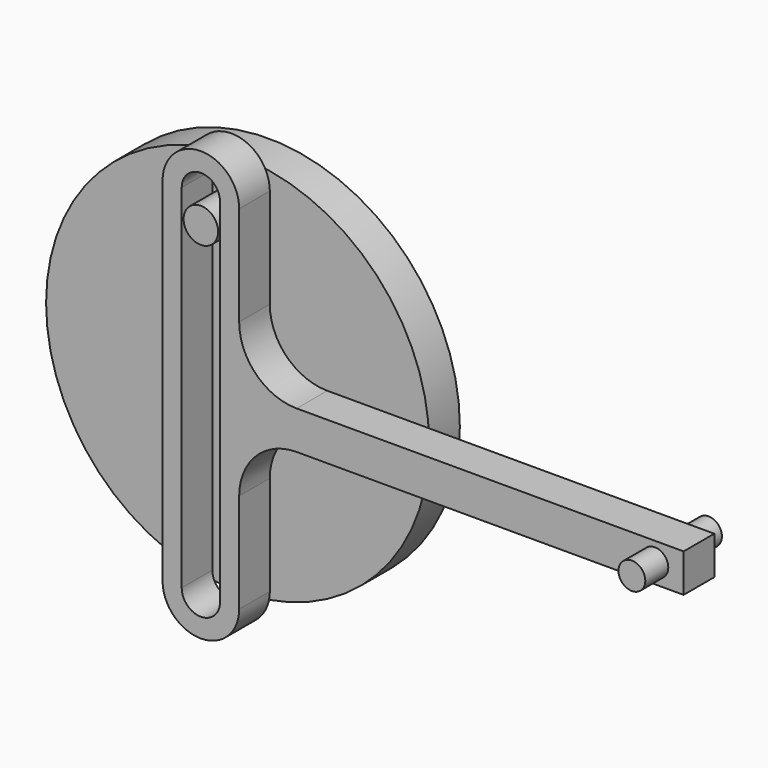
from build123d import *

# Parameters (mm, degrees)
F0_W     = 116
F0_H     = 10
F0_R     = 3.5
F1_DEPTH = 5
F3_R     = 50
F3_R_2   = 4.5
F4_DEPTH = 10
F5_DEPTH = 22
F6_R     = 15
F7_DEPTH = 12.5


with BuildPart() as f1:
    # F0 (on Front) → F1 (new body, symmetric)
    with BuildSketch(Plane.XZ):
        with BuildLine():
            ThreePointArc((5, 46), (2.0710678119, 53.0710678119), (-5, 56))
            ThreePointArc((-5, 56), (-12.0710678119, 53.0710678119), (-15, 46))
            Line((-15, 46), (-15, -46))
            ThreePointArc((-15, -46), (-12.0710678119, -53.0710678119), (-5, -56))
            ThreePointArc((-5, -56), (2.0710678119, -53.0710678119), (5, -46))
            Line((5, -46), (5, -5))
            Line((5, -5), (5, 5))
            Line((5, 5), (5, 46))
        make_face()
        with BuildLine():
            ThreePointArc((-5, 51), (-1.4644660941, 49.5355339059), (0, 46))
            Line((0, 46), (0, -46))
            ThreePointArc((0, -46), (-1.4644660941, -49.5355339059), (-5, -51))
            ThreePointArc((-5, -51), (-8.5355339059, -49.5355339059), (-10, -46))
            Line((-10, -46), (-10, 46))
            ThreePointArc((-10, 46), (-8.5355339059, 49.5355339059), (-5, 51))
        make_face(mode=Mode.SUBTRACT)
        with Locations((63, 0)):
            Rectangle(F0_W, F0_H)
        with Locations((113.5, 0)):
            Circle(F0_R, mode=Mode.SUBTRACT)
    extrude(amount=F1_DEPTH, both=True)

    # F6
    f6_edges = [f1.edges().sort_by_distance(p)[0] for p in [
        (5, 0, 5),
        (5, 0, -5),
    ]]
    fillet(f6_edges, radius=F6_R)


with BuildPart() as f4:
    # F3 (on offset) → F4 (new body)
    with BuildSketch(Plane(origin=(0, 17, 0), x_dir=(-1, 0, 0), z_dir=(0, 1, 0))):
        with Locations((5, 0)):
            Circle(F3_R)
        with Locations((5, 38.9393063534)):
            Circle(F3_R_2, mode=Mode.SUBTRACT)
        with Locations((5, 38.9393063534)):
            Circle(F3_R_2)
    extrude(amount=-F4_DEPTH)

    # F3 (on offset) → F5 (join, through all)
    with BuildSketch(Plane(origin=(0, 17, 0), x_dir=(-1, 0, 0), z_dir=(0, 1, 0))):
        with Locations((5, 38.9393063534)):
            Circle(F3_R_2)
    extrude(amount=-F5_DEPTH)


with BuildPart() as f7:
    # F0 (on Front) → F7 (new body, symmetric)
    with BuildSketch(Plane.XZ):
        with Locations((113.5, 0)):
            Circle(F0_R)
    extrude(amount=F7_DEPTH, both=True)


solid = Compound([f1.part, f4.part, f7.part])
